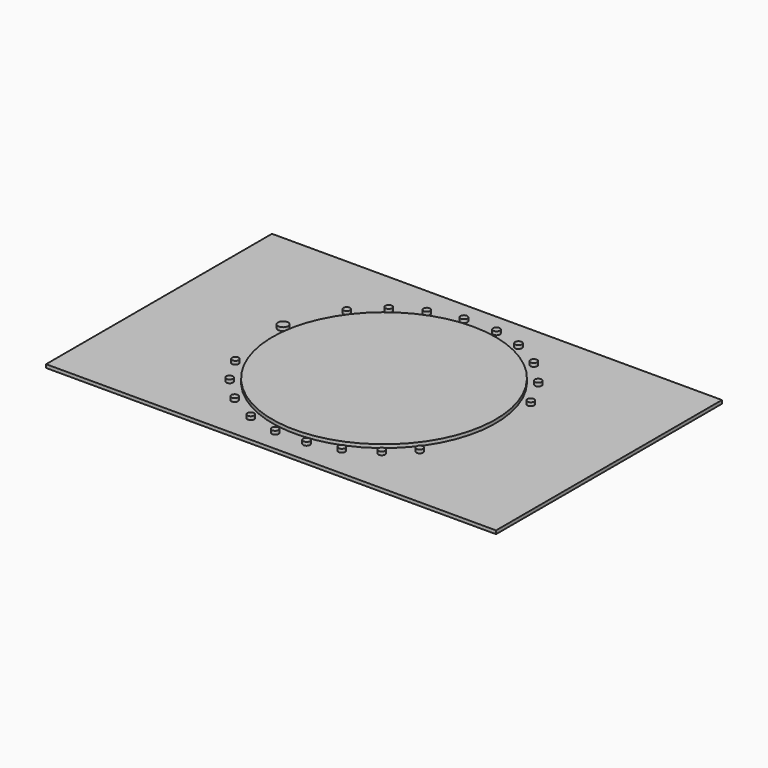
from build123d import *

# Parameters (mm, degrees)
F0_W     = 83.4575
F0_H     = 24.77125
F0_H_2   = 83.4575
F0_R     = 1
F0_R_2   = 33
F0_R_3   = 1.5
F1_DEPTH = 1
F2_DEPTH = 2
F3_ANGLE = 90


with BuildPart() as f1:
    # F0 (on Top) → F1 (new body)
    with BuildSketch(Plane.XY):
        with Locations((0, 54.114375)):
            Rectangle(F0_W, F0_H)
        with Locations((0, -54.114375)):
            Rectangle(F0_W, F0_H)
        Rectangle(F0_W, F0_H_2)
        with Locations((-35.241835, -5.300909)):
            Circle(F0_R, mode=Mode.SUBTRACT)
        with Locations((-21.911398, -28.106533)):
            Circle(F0_R, mode=Mode.SUBTRACT)
        with Locations((-28.14937, -21.856339)):
            Circle(F0_R, mode=Mode.SUBTRACT)
        with Locations((-32.853084, -13.811641)):
            Circle(F0_R, mode=Mode.SUBTRACT)
        with Locations((12.550777, -33.355128)):
            Circle(F0_R, mode=Mode.SUBTRACT)
        with Locations((21.307442, -28.567105)):
            Circle(F0_R, mode=Mode.SUBTRACT)
        with Locations((28.306502, -21.652449)):
            Circle(F0_R, mode=Mode.SUBTRACT)
        with Locations((33.0647, -13.297075)):
            Circle(F0_R, mode=Mode.SUBTRACT)
        with Locations((35.280626, -5.036269)):
            Circle(F0_R, mode=Mode.SUBTRACT)
        with Locations((-35.433602, 3.81398)):
            Circle(F0_R, mode=Mode.SUBTRACT)
        with Locations((-33.27858, 12.752359)):
            Circle(F0_R, mode=Mode.SUBTRACT)
        with Locations((-28.561056, 21.31555)):
            Circle(F0_R, mode=Mode.SUBTRACT)
        with Locations((-21.972067, 28.059131)):
            Circle(F0_R, mode=Mode.SUBTRACT)
        with Locations((-13.864813, 32.83068)):
            Circle(F0_R, mode=Mode.SUBTRACT)
        Circle(F0_R_2, mode=Mode.SUBTRACT)
        with Locations((32.911723, 13.671321)):
            Circle(F0_R, mode=Mode.SUBTRACT)
        with Locations((28.498819, 21.398689)):
            Circle(F0_R, mode=Mode.SUBTRACT)
        with Locations((21.63808, 28.317487)):
            Circle(F0_R, mode=Mode.SUBTRACT)
        with Locations((35.335113, 4.638577)):
            Circle(F0_R, mode=Mode.SUBTRACT)
        with Locations((6.526564, 35.035561)):
            Circle(F0_R_3, mode=Mode.SUBTRACT)
    extrude(amount=F1_DEPTH)

    # F0 (on Top) → F2 (join)
    with BuildSketch(Plane.XY):
        Circle(F0_R_2)
        with Locations((-13.864813, 32.83068)):
            Circle(F0_R)
        with Locations((-21.972067, 28.059131)):
            Circle(F0_R)
        with Locations((-28.561056, 21.31555)):
            Circle(F0_R)
        with Locations((-33.27858, 12.752359)):
            Circle(F0_R)
        with Locations((-35.433602, 3.81398)):
            Circle(F0_R)
        with Locations((-35.241835, -5.300909)):
            Circle(F0_R)
        with Locations((-32.853084, -13.811641)):
            Circle(F0_R)
        with Locations((-28.14937, -21.856339)):
            Circle(F0_R)
        with Locations((-21.911398, -28.106533)):
            Circle(F0_R)
        with Locations((12.550777, -33.355128)):
            Circle(F0_R)
        with Locations((21.307442, -28.567105)):
            Circle(F0_R)
        with Locations((28.306502, -21.652449)):
            Circle(F0_R)
        with Locations((33.0647, -13.297075)):
            Circle(F0_R)
        with Locations((35.280626, -5.036269)):
            Circle(F0_R)
        with Locations((35.335113, 4.638577)):
            Circle(F0_R)
        with Locations((32.911723, 13.671321)):
            Circle(F0_R)
        with Locations((28.498819, 21.398689)):
            Circle(F0_R)
        with Locations((21.63808, 28.317487)):
            Circle(F0_R)
        with Locations((6.526564, 35.035561)):
            Circle(F0_R_3)
    extrude(amount=F2_DEPTH)


with BuildPart() as f1_1:
    # F3: moved
    add(f1.part.rotate(Axis((0, 0, 2), (0, 0, 1)), F3_ANGLE))


solid = f1_1.part
